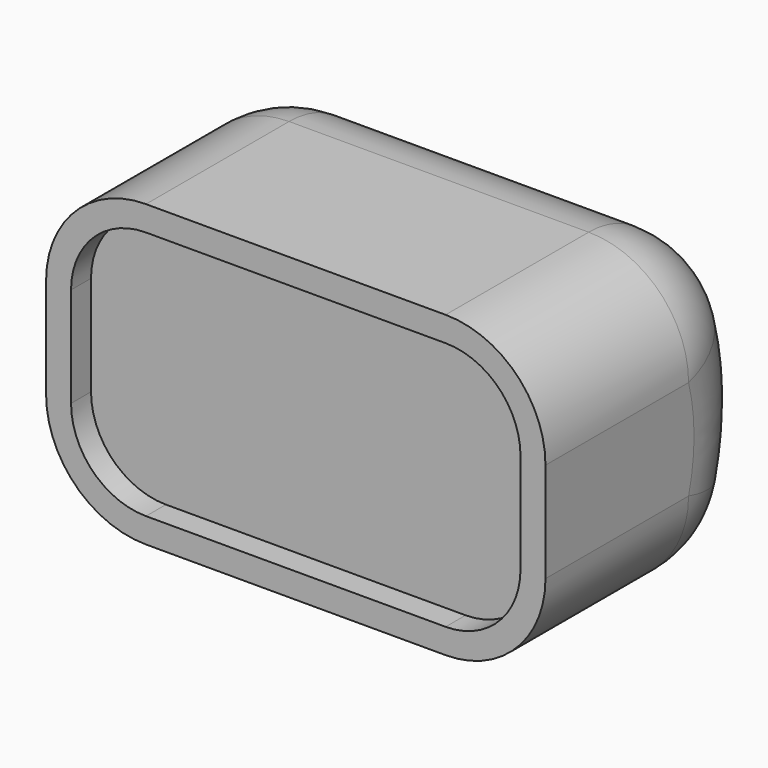
from build123d import *

# Parameters (mm, degrees)
F0_W     = 127
F0_H     = 76.2
F1_DEPTH = 76.2
F3_DEPTH = 127.001
F4_R     = 25.4
F6_DEPTH = 6.35


with BuildPart() as f1:
    # F0 (on Front) → F1 (new body)
    with BuildSketch(Plane.XZ):
        Rectangle(F0_W, F0_H)
    extrude(amount=F1_DEPTH)

    # F2 (on face) → F3 (cut, through all)
    with BuildSketch(Plane(origin=(-63.5, 0, 0), x_dir=(0, -1, 0), z_dir=(-1, 0, 0))):
        with BuildLine():
            ThreePointArc((14.3655382942, 38.1), (37.6635127669, 61.5633803993), (68.9486063382, 72.2670598849))
            Line((68.9486063382, 72.2670598849), (-52.0951251411, 60.1213361119))
            Line((-52.0951251411, 60.1213361119), (-33.0926589668, -48.5322624445))
            Line((-33.0926589668, -48.5322624445), (48.5539544729, -67.162540312))
            ThreePointArc((48.5539544729, -67.162540312), (29.1590805148, -55.3377136177), (14.3655382942, -38.1))
            Line((14.3655382942, -38.1), (0, -38.1))
            Line((0, -38.1), (0, 38.1))
            Line((0, 38.1), (14.3655382942, 38.1))
        make_face()
        with BuildLine():
            ThreePointArc((14.3655382942, -38.1), (3.5700429957, 0), (14.3655382942, 38.1))
            Line((14.3655382942, 38.1), (0, 38.1))
            Line((0, 38.1), (0, -38.1))
            Line((0, -38.1), (14.3655382942, -38.1))
        make_face()
    extrude(amount=-F3_DEPTH, mode=Mode.SUBTRACT)

    # F4
    f4_edges = [f1.edges().sort_by_distance(p)[0] for p in [
        (-63.5, -45.282769, 38.1),
        (63.5, -45.282769, 38.1),
        (-63.5, -45.282769, -38.1),
        (63.5, -45.282769, -38.1),
        (63.5, -3.570043, 0),
        (-63.5, -3.570043, 0),
        (0, -14.365538, -38.1),
        (0, -14.365538, 38.1),
    ]]
    fillet(f4_edges, radius=F4_R)

    # F5 (on face) → F6 (cut)
    with BuildSketch(Plane.XZ.offset(76.2)):
        with BuildLine():
            Line((57.1500010133, -12.7), (57.1500010133, 12.7))
            ThreePointArc((57.1500010133, 12.7), (51.5703848981, 26.1703848981), (38.1, 31.7500010133))
            Line((38.1, 31.7500010133), (-38.1, 31.7500010133))
            ThreePointArc((-38.1, 31.7500010133), (-51.5703848981, 26.1703848981), (-57.1500010133, 12.7))
            Line((-57.1500010133, 12.7), (-57.1500010133, -12.7))
            ThreePointArc((-57.1500010133, -12.7), (-51.5703848981, -26.1703848981), (-38.1, -31.7500010133))
            Line((-38.1, -31.7500010133), (38.1, -31.7500010133))
            ThreePointArc((38.1, -31.7500010133), (51.5703848981, -26.1703848981), (57.1500010133, -12.7))
        make_face()
    extrude(amount=-F6_DEPTH, mode=Mode.SUBTRACT)


solid = f1.part
